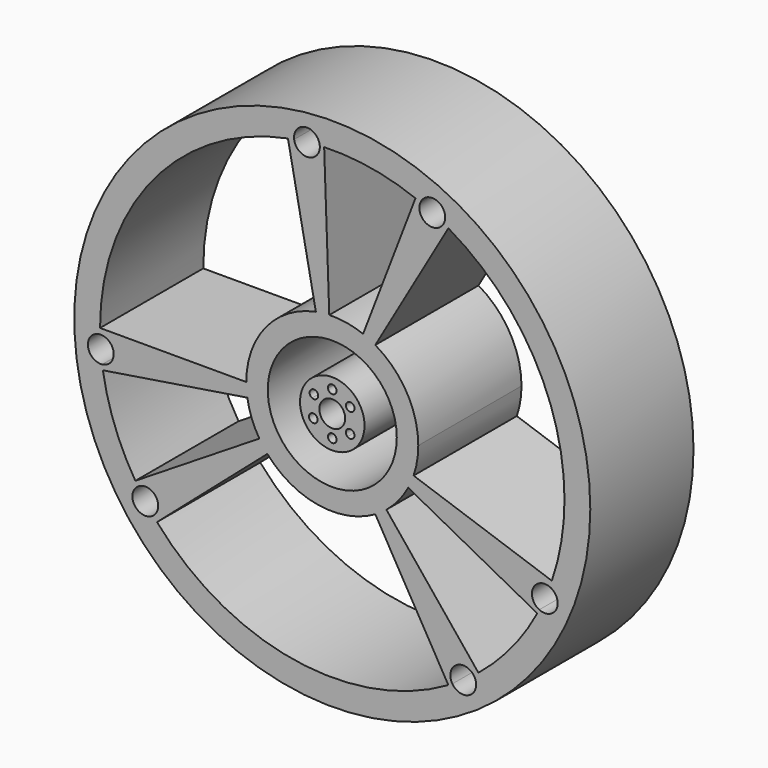
from build123d import *

# Parameters (mm, degrees)
F0_R     = 60
F0_R_2   = 15
F0_R_3   = 7.5
F0_R_4   = 3
F1_DEPTH = 30


with BuildPart() as f1:
    # F0 (on Front) → F1 (new body)
    with BuildSketch(Plane.XZ):
        Circle(F0_R)
        with BuildLine():
            ThreePointArc((27, 46.765372), (46.765372, 27), (54, 0))
            ThreePointArc((54, 0), (53.259422, -8.912571), (51.058003, -17.58068))
            ThreePointArc((51.058003, -17.58068), (50.812483, -18.278171), (50.557436, -18.972234))
            ThreePointArc((50.557436, -18.972234), (51.915275, -20.076534), (52.425809, -21.750618))
            ThreePointArc((52.425809, -21.750618), (51.030096, -24.285626), (48.141633, -24.461871))
            ThreePointArc((48.141633, -24.461871), (47.912466, -24.907741), (47.67917, -25.351464))
            ThreePointArc((47.67917, -25.351464), (41.667728, -34.348224), (33.983301, -41.965882))
            ThreePointArc((33.983301, -41.965882), (33.435837, -42.403358), (32.882743, -42.833693))
            ThreePointArc((32.882743, -42.833693), (33.307073, -43.668619), (33.453266, -44.593706))
            ThreePointArc((33.453266, -44.593706), (31.298724, -47.472108), (27.929798, -46.216083))
            ThreePointArc((27.929798, -46.216083), (27.466272, -46.493052), (27, -46.765372))
            ThreePointArc((27, -46.765372), (-8.912571, -53.259422), (-40.754317, -35.427188))
            ThreePointArc((-40.754317, -35.427188), (-41.194818, -34.913994), (-41.628857, -34.395323))
            ThreePointArc((-41.628857, -34.395323), (-45.889992, -33.80989), (-45.186419, -29.566662))
            ThreePointArc((-45.186419, -29.566662), (-45.492993, -29.09274), (-45.794597, -28.61564))
            ThreePointArc((-45.794597, -28.61564), (-50.580298, -18.911199), (-53.33517, -8.447461))
            ThreePointArc((-53.33517, -8.447461), (-53.422748, -7.874641), (-53.504174, -7.300914))
            ThreePointArc((-53.504174, -7.300914), (-56.817448, -4.558248), (-53.983805, -1.322438))
            ThreePointArc((-53.983805, -1.322438), (-53.995951, -0.661269), (-54, 0))
            ThreePointArc((-54, 0), (-41.667728, 34.348224), (-10.303686, 53.007868))
            ThreePointArc((-10.303686, 53.007868), (-9.585714, 53.142394), (-8.865989, 53.267197))
            ThreePointArc((-8.865989, 53.267197), (-6.221613, 56.659435), (-2.904139, 53.921851))
            ThreePointArc((-2.904139, 53.921851), (-2.394463, 53.946886), (-1.884573, 53.967105))
            ThreePointArc((-1.884573, 53.967105), (8.912571, 53.259422), (19.351869, 50.413343))
            ThreePointArc((19.351869, 50.413343), (19.930144, 50.187542), (20.505785, 49.955108))
            ThreePointArc((20.505785, 49.955108), (23.869761, 51.674182), (26.248353, 48.739246))
            ThreePointArc((26.248353, 48.739246), (26.164896, 48.036552), (25.919167, 47.372954))
            ThreePointArc((25.919167, 47.372954), (26.461327, 47.072265), (27, 46.765372))
        make_face(mode=Mode.SUBTRACT)
        with BuildLine():
            ThreePointArc((-19.753767, -3.128689), (-19.938347, -1.569182), (-20, 0))
            Line((-20, 0), (-54, 0))
            ThreePointArc((-54, 0), (-53.995951, -0.661269), (-53.983805, -1.322438))
            ThreePointArc((-53.983805, -1.322438), (-51.761898, -2.142307), (-50.827056, -4.31834))
            ThreePointArc((-50.827056, -4.31834), (-51.594496, -6.322256), (-53.504174, -7.300914))
            ThreePointArc((-53.504174, -7.300914), (-53.422748, -7.874641), (-53.33517, -8.447461))
            Line((-53.33517, -8.447461), (-19.753767, -3.128689))
        make_face()
        with BuildLine():
            Line((-40.754317, -35.427188), (-15.094192, -13.121181))
            ThreePointArc((-15.094192, -13.121181), (-16.077137, -11.896456), (-16.960962, -10.598385))
            Line((-16.960962, -10.598385), (-45.794597, -28.61564))
            ThreePointArc((-45.794597, -28.61564), (-45.492993, -29.09274), (-45.186419, -29.566662))
            ThreePointArc((-45.186419, -29.566662), (-42.084598, -29.371939), (-40.474729, -32.030422))
            ThreePointArc((-40.474729, -32.030422), (-40.778656, -33.34617), (-41.628857, -34.395323))
            ThreePointArc((-41.628857, -34.395323), (-41.194818, -34.913994), (-40.754317, -35.427188))
        make_face()
        with BuildLine():
            Line((33.983301, -41.965882), (12.586408, -15.542919))
            ThreePointArc((12.586408, -15.542919), (11.328125, -16.482524), (10, -17.320508))
            Line((10, -17.320508), (27, -46.765372))
            ThreePointArc((27, -46.765372), (27.466272, -46.493052), (27.929798, -46.216083))
            ThreePointArc((27.929798, -46.216083), (28.761418, -42.116277), (32.882743, -42.833693))
            ThreePointArc((32.882743, -42.833693), (33.435837, -42.403358), (33.983301, -41.965882))
        make_face()
        with BuildLine():
            ThreePointArc((50.557436, -18.972234), (50.812483, -18.278171), (51.058003, -17.58068))
            Line((51.058003, -17.58068), (18.910372, -6.511363))
            ThreePointArc((18.910372, -6.511363), (18.341201, -7.974981), (17.658952, -9.389431))
            Line((17.658952, -9.389431), (47.67917, -25.351464))
            ThreePointArc((47.67917, -25.351464), (47.912466, -24.907741), (48.141633, -24.461871))
            ThreePointArc((48.141633, -24.461871), (46.679931, -20.542251), (50.557436, -18.972234))
        make_face()
        with BuildLine():
            Line((10, 17.320508), (27, 46.765372))
            ThreePointArc((27, 46.765372), (26.461327, 47.072265), (25.919167, 47.372954))
            ThreePointArc((25.919167, 47.372954), (21.956778, 46.03151), (20.505785, 49.955108))
            ThreePointArc((20.505785, 49.955108), (19.930144, 50.187542), (19.351869, 50.413343))
            Line((19.351869, 50.413343), (7.167359, 18.671609))
            ThreePointArc((7.167359, 18.671609), (8.610222, 18.051706), (10, 17.320508))
        make_face()
        with BuildLine():
            ThreePointArc((-3.81618, 19.632544), (-2.264064, 19.871437), (-0.69799, 19.987817))
            Line((-0.69799, 19.987817), (-1.884573, 53.967105))
            ThreePointArc((-1.884573, 53.967105), (-2.394463, 53.946886), (-2.904139, 53.921851))
            ThreePointArc((-2.904139, 53.921851), (-2.896656, 53.799707), (-2.89416, 53.677359))
            ThreePointArc((-2.89416, 53.677359), (-5.688595, 50.68441), (-8.865989, 53.267197))
            ThreePointArc((-8.865989, 53.267197), (-9.585714, 53.142394), (-10.303686, 53.007868))
            Line((-10.303686, 53.007868), (-3.81618, 19.632544))
        make_face()
        with BuildLine():
            ThreePointArc((20, 0), (17.320508, 10), (10, 17.320508))
            ThreePointArc((10, 17.320508), (8.610222, 18.051706), (7.167359, 18.671609))
            ThreePointArc((7.167359, 18.671609), (3.300952, 19.725712), (-0.69799, 19.987817))
            ThreePointArc((-0.69799, 19.987817), (-2.264064, 19.871437), (-3.81618, 19.632544))
            ThreePointArc((-3.81618, 19.632544), (-15.432492, 12.721564), (-20, 0))
            ThreePointArc((-20, 0), (-19.938347, -1.569182), (-19.753767, -3.128689))
            ThreePointArc((-19.753767, -3.128689), (-18.733444, -7.004148), (-16.960962, -10.598385))
            ThreePointArc((-16.960962, -10.598385), (-16.077137, -11.896456), (-15.094192, -13.121181))
            ThreePointArc((-15.094192, -13.121181), (-3.300952, -19.725712), (10, -17.320508))
            ThreePointArc((10, -17.320508), (11.328125, -16.482524), (12.586408, -15.542919))
            ThreePointArc((12.586408, -15.542919), (15.432492, -12.721564), (17.658952, -9.389431))
            ThreePointArc((17.658952, -9.389431), (18.341201, -7.974981), (18.910372, -6.511363))
            ThreePointArc((18.910372, -6.511363), (19.725712, -3.300952), (20, 0))
        make_face()
        Circle(F0_R_2, mode=Mode.SUBTRACT)
        Circle(F0_R_3)
        with BuildLine():
            ThreePointArc((4.640901, 1.860656), (4.909404, 0.947496), (5, 0))
            ThreePointArc((5, 0), (4.906961, -0.960072), (4.631305, -1.884413))
            ThreePointArc((4.631305, -1.884413), (5.020312, -2.252407), (5.163685, -2.768343))
            ThreePointArc((5.163685, -2.768343), (4.591373, -3.67227), (3.529518, -3.541539))
            ThreePointArc((3.529518, -3.541539), (2.362021, -4.40691), (0.994987, -4.9))
            ThreePointArc((0.994987, -4.9), (0.998746, -4.949937), (1, -5))
            ThreePointArc((1, -5), (-0.050063, -5.998746), (-0.994987, -4.9))
            ThreePointArc((-0.994987, -4.9), (-2.57588, -4.285422), (-3.860348, -3.17769))
            ThreePointArc((-3.860348, -3.17769), (-5.298592, -2.815124), (-4.794019, -1.420346))
            ThreePointArc((-4.794019, -1.420346), (-4.997953, 0.143075), (-4.704915, 1.692268))
            ThreePointArc((-4.704915, 1.692268), (-5.128872, 3.113627), (-3.672242, 3.393322))
            ThreePointArc((-3.672242, 3.393322), (-2.452199, 4.357376), (-0.994987, 4.9))
            ThreePointArc((-0.994987, 4.9), (-0.050063, 5.998746), (1, 5))
            ThreePointArc((1, 5), (0.998746, 4.949937), (0.994987, 4.9))
            ThreePointArc((0.994987, 4.9), (2.373304, 4.400844), (3.54762, 3.523406))
            ThreePointArc((3.54762, 3.523406), (4.607819, 3.649799), (5.177817, 2.746971))
            ThreePointArc((5.177817, 2.746971), (5.033119, 2.228841), (4.640901, 1.860656))
        make_face(mode=Mode.SUBTRACT)
        with BuildLine():
            ThreePointArc((4.631305, -1.884413), (4.906961, -0.960072), (5, 0))
            ThreePointArc((5, 0), (4.909404, 0.947496), (4.640901, 1.860656))
            ThreePointArc((4.640901, 1.860656), (3.342253, 2.197576), (3.54762, 3.523406))
            ThreePointArc((3.54762, 3.523406), (2.373304, 4.400844), (0.994987, 4.9))
            ThreePointArc((0.994987, 4.9), (0, 4), (-0.994987, 4.9))
            ThreePointArc((-0.994987, 4.9), (-2.452199, 4.357376), (-3.672242, 3.393322))
            ThreePointArc((-3.672242, 3.393322), (-3.379125, 3.040885), (-3.27406, 2.594689))
            ThreePointArc((-3.27406, 2.594689), (-3.740607, 1.748859), (-4.704915, 1.692268))
            ThreePointArc((-4.704915, 1.692268), (-4.997953, 0.143075), (-4.794019, -1.420346))
            ThreePointArc((-4.794019, -1.420346), (-3.858055, -1.515718), (-3.415493, -2.345936))
            ThreePointArc((-3.415493, -2.345936), (-3.533693, -2.817558), (-3.860348, -3.17769))
            ThreePointArc((-3.860348, -3.17769), (-2.57588, -4.285422), (-0.994987, -4.9))
            ThreePointArc((-0.994987, -4.9), (0, -4), (0.994987, -4.9))
            ThreePointArc((0.994987, -4.9), (2.362021, -4.40691), (3.529518, -3.541539))
            ThreePointArc((3.529518, -3.541539), (3.330948, -2.214675), (4.631305, -1.884413))
        make_face()
        Circle(F0_R_4, mode=Mode.SUBTRACT)
    extrude(amount=F1_DEPTH)


solid = f1.part
